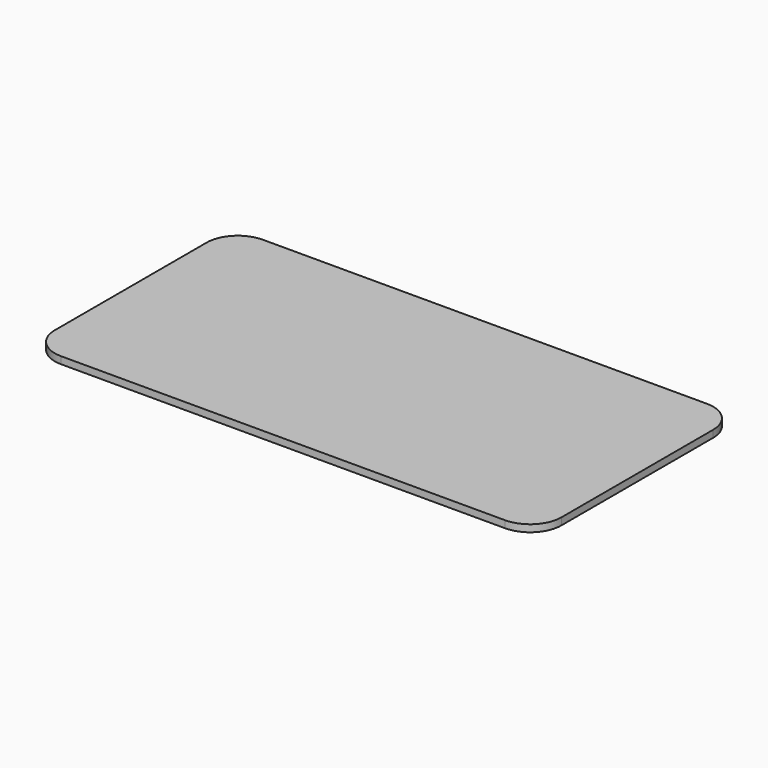
from build123d import *

# Parameters (mm, degrees)
F1_DEPTH = 8.5


with BuildPart() as f1:
    # F0 (on Top) → F1 (new body, symmetric)
    with BuildSketch(Plane.XY):
        with BuildLine():
            ThreePointArc((607.5, 227.5), (585.533009, 280.533009), (532.5, 302.5))
            Line((532.5, 302.5), (-532.5, 302.5))
            ThreePointArc((-532.5, 302.5), (-585.533009, 280.533009), (-607.5, 227.5))
            Line((-607.5, 227.5), (-607.5, -227.5))
            ThreePointArc((-607.5, -227.5), (-585.533009, -280.533009), (-532.5, -302.5))
            Line((-532.5, -302.5), (532.5, -302.5))
            ThreePointArc((532.5, -302.5), (585.533009, -280.533009), (607.5, -227.5))
            Line((607.5, -227.5), (607.5, 227.5))
        make_face()
    extrude(amount=F1_DEPTH, both=True)


solid = f1.part
